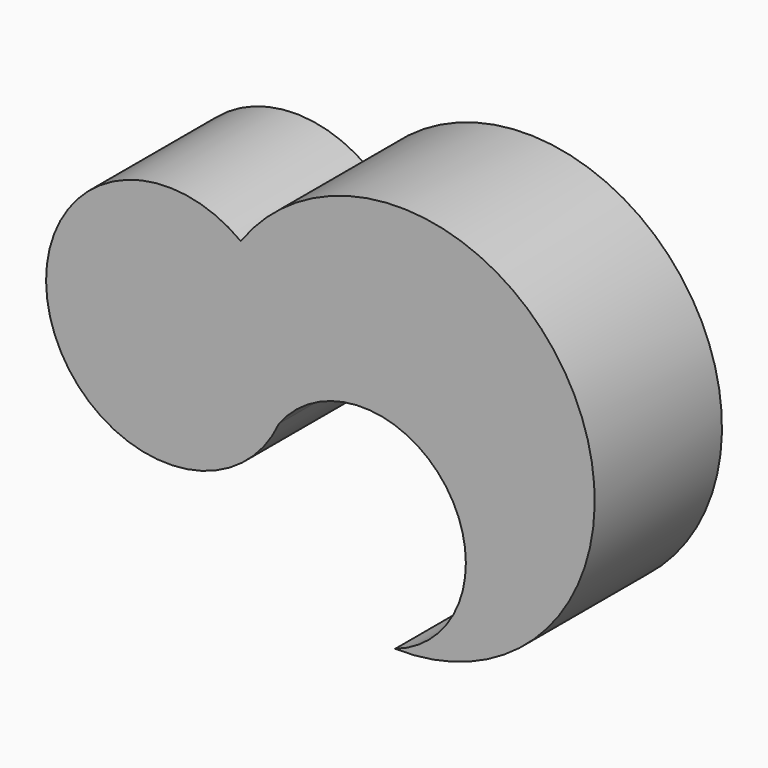
from build123d import *

# Parameters (mm, degrees)
F1_DEPTH = 25.4


with BuildPart() as f1:
    # F0 (on Front) → F1 (new body)
    with BuildSketch(Plane.XZ):
        with BuildLine():
            ThreePointArc((-14.148111, 37.565671), (12.533846, 37.362531), (4.390793, 11.952714))
            ThreePointArc((4.390793, 11.952714), (32.955421, 57.031561), (-20.246433, 61.227165))
            ThreePointArc((-20.246433, 61.227165), (-50.714348, 40.757997), (-14.148111, 37.565671))
        make_face()
    extrude(amount=F1_DEPTH)


solid = f1.part
